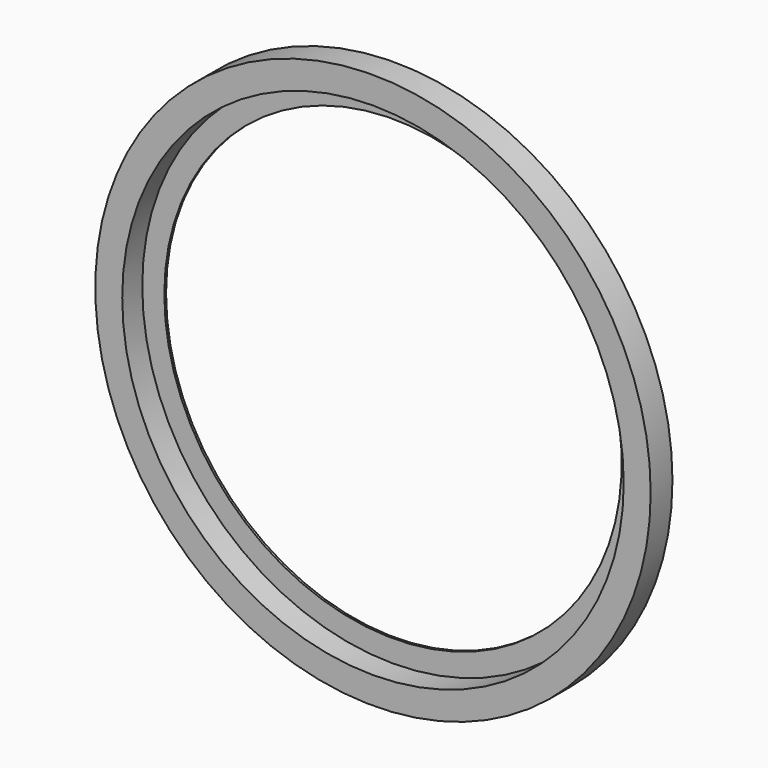
from build123d import *

# Parameters (mm, degrees)
F0_R     = 51
F0_R_2   = 46.05
F1_DEPTH = 5
F2_DEPTH = 0.4
F3_D     = 84


with BuildPart() as f1:
    # F0 (on Front) → F1 (new body)
    with BuildSketch(Plane.XZ):
        Circle(F0_R)
        Circle(F0_R_2, mode=Mode.SUBTRACT)
    extrude(amount=F1_DEPTH)

    # F0 (on Front) → F2 (join)
    with BuildSketch(Plane.XZ):
        Circle(F0_R_2)
    extrude(amount=F2_DEPTH)

    # F3 (through all)
    with Locations(Plane(origin=(0, 0, 0), x_dir=(1, 0, 0), z_dir=(0, 1, 0))):
        with Locations((0, 0)):
            Hole(F3_D / 2)


solid = f1.part
